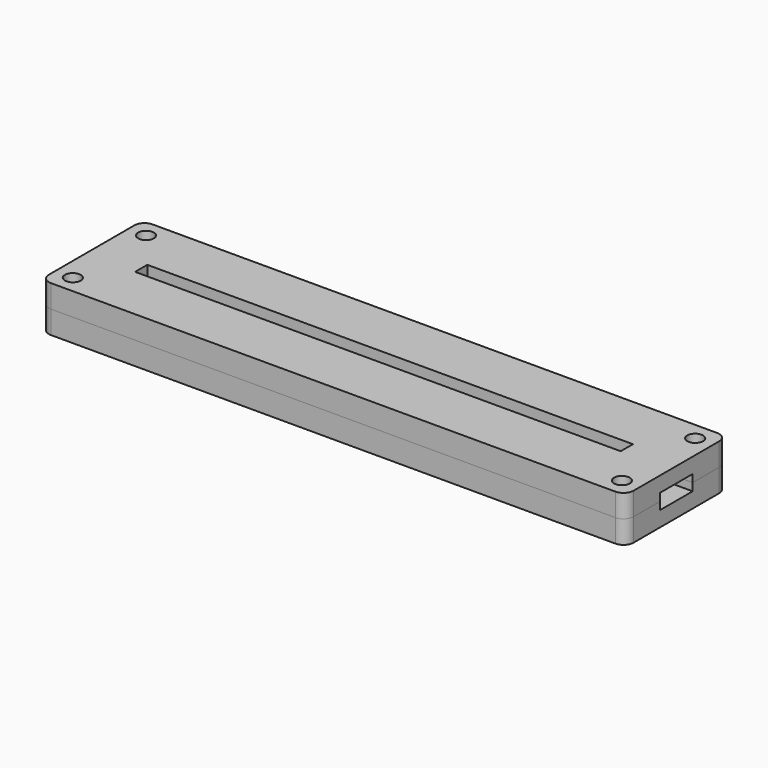
from build123d import *

# Parameters (mm, degrees)
BOX_BOTTOM_HALF_0_W     = 117
BOX_BOTTOM_HALF_0_H     = 27
BOX_BOTTOM_HALF_0_DEPTH = 5.5
SKETCH_W                = 115
SKETCH_H                = 25
PAD_DEPTH               = 3
PAD001_DEPTH            = 3
SKETCH002_W             = 115
SKETCH002_H             = 25
SKETCH002_W_2           = 95.5
SKETCH002_H_2           = 3
PAD002_DEPTH            = 3
SKETCH003_R             = 1.55
POCKET_DEPTH            = 245.060315
POLARPATTERN_COUNT      = 2
POLARPATTERN001_COUNT   = 2
POLARPATTERN002_COUNT   = 2
FILLET_R                = 2


with BuildPart() as box_bottom_half_0_body:
    # box_bottom_half_0 → box_bottom_half_0 (new body)
    with BuildSketch(Plane(origin=(-58.5, -13.5, -1), x_dir=(1, 0, 0), z_dir=(0, 0, 1))):
        with Locations((58.5, 13.5)):
            Rectangle(BOX_BOTTOM_HALF_0_W, BOX_BOTTOM_HALF_0_H)
    extrude(amount=BOX_BOTTOM_HALF_0_DEPTH)


with BuildPart() as body:
    # Sketch → Pad (new body)
    with BuildSketch(Plane.XY):
        Rectangle(SKETCH_W, SKETCH_H)
    extrude(amount=PAD_DEPTH)

    # Sketch001 (on Face6 of Pad) → Pad001 (join)
    with BuildSketch(Plane.XY.offset(3)):
        Polygon((-57.5, 12.5), (57.5, 12.5), (57.5, 4), (50, 4), (50, 5), (-50, 5), (-50, 4), (-57.5, 4), align=None)
        Polygon((-57.5, -12.5), (57.5, -12.5), (57.5, -4), (50, -4), (50, -5), (-50, -5), (-50, -4), (-57.5, -4), align=None)
    extrude(amount=PAD001_DEPTH)

    # Sketch002 (on Face12 of Pad001) → Pad002 (join)
    with BuildSketch(Plane.XY.offset(6)):
        Rectangle(SKETCH002_W, SKETCH002_H)
        Rectangle(SKETCH002_W_2, SKETCH002_H_2, mode=Mode.SUBTRACT)
    extrude(amount=PAD002_DEPTH)

    # Sketch003 (on Face26 of Pad002) → Pocket (cut, through all)
    with BuildSketch(Plane.XY.offset(9)):
        with Locations((-54, 9)):
            Circle(SKETCH003_R)
    pocket = extrude(amount=-POCKET_DEPTH, mode=Mode.SUBTRACT)

    # PolarPattern: Pocket ×2 about axis
    polarpattern_axis = Axis((0, 0, 0), (0, 1, 0))
    for i in range(1, POLARPATTERN_COUNT):
        add(pocket.rotate(polarpattern_axis, i * 360 / POLARPATTERN_COUNT), mode=Mode.SUBTRACT)

    # PolarPattern001: Pocket ×2 about axis
    polarpattern001_axis = Axis((0, 0, 0), (1, 0, 0))
    for i in range(1, POLARPATTERN001_COUNT):
        add(pocket.rotate(polarpattern001_axis, i * 360 / POLARPATTERN001_COUNT), mode=Mode.SUBTRACT)

    # PolarPattern002: Pocket ×2 about axis
    polarpattern002_axis = Axis((0, 0, 9), (0, 0, 1))
    for i in range(1, POLARPATTERN002_COUNT):
        add(pocket.rotate(polarpattern002_axis, i * 360 / POLARPATTERN002_COUNT), mode=Mode.SUBTRACT)

    # Fillet
    fillet_edges = [body.edges().sort_by_distance(p)[0] for p in [
        (57.5, 12.5, 7.5),
        (57.5, 12.5, 4.5),
        (57.5, 12.5, 1.5),
        (57.5, -12.5, 7.5),
        (-57.5, 12.5, 7.5),
        (-57.5, -12.5, 7.5),
    ]]
    fillet(fillet_edges, radius=FILLET_R)


with BuildPart() as bottom_half_0_body:
    # bottom_half_0 base: copy of Body
    add(body.part)

    # bottom_half_0: intersect box_bottom_half_0 body
    add(box_bottom_half_0_body.part, mode=Mode.INTERSECT)


with BuildPart() as top_half_0_body:
    # top_half_0 base: copy of Body
    add(body.part)

    # top_half_0: cut box_bottom_half_0 body
    add(box_bottom_half_0_body.part, mode=Mode.SUBTRACT)


solid = Compound([bottom_half_0_body.part, top_half_0_body.part])
